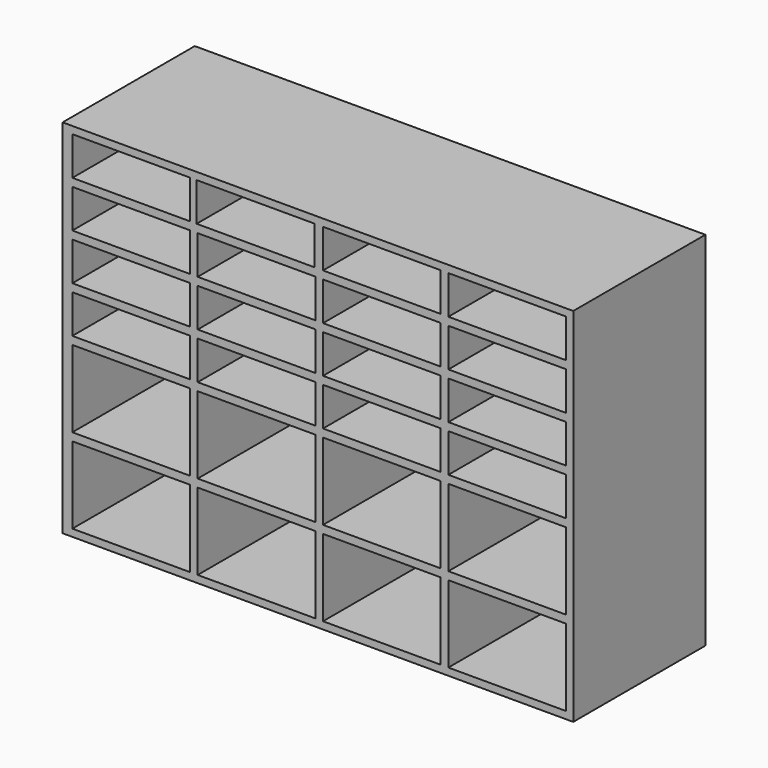
from build123d import *

# Parameters (mm, degrees)
F0_W     = 225.699038
F0_H     = 159.9
F0_W_2   = 52
F0_H_2   = 34
F0_H_3   = 17
F1_DEPTH = 73


with BuildPart() as f1:
    # F0 (on Front) → F1 (new body)
    with BuildSketch(Plane.XZ):
        with Locations((-274.886772, 47.687937)):
            Rectangle(F0_W, F0_H)
        with Locations((-357.437253, -12.062063)):
            Rectangle(F0_W_2, F0_H_2, mode=Mode.SUBTRACT)
        with Locations((-302.037253, -12.062063)):
            Rectangle(F0_W_2, F0_H_2, mode=Mode.SUBTRACT)
        with Locations((-357.437253, 25.437937)):
            Rectangle(F0_W_2, F0_H_2, mode=Mode.SUBTRACT)
        with Locations((-302.037253, 25.437937)):
            Rectangle(F0_W_2, F0_H_2, mode=Mode.SUBTRACT)
        with Locations((-246.637253, -12.062063)):
            Rectangle(F0_W_2, F0_H_2, mode=Mode.SUBTRACT)
        with Locations((-191.237253, -12.062063)):
            Rectangle(F0_W_2, F0_H_2, mode=Mode.SUBTRACT)
        with Locations((-246.637253, 25.437937)):
            Rectangle(F0_W_2, F0_H_2, mode=Mode.SUBTRACT)
        with Locations((-191.237253, 25.437937)):
            Rectangle(F0_W_2, F0_H_2, mode=Mode.SUBTRACT)
        with Locations((-357.437253, 54.437937)):
            Rectangle(F0_W_2, F0_H_3, mode=Mode.SUBTRACT)
        with Locations((-357.437253, 74.937937)):
            Rectangle(F0_W_2, F0_H_3, mode=Mode.SUBTRACT)
        with Locations((-302.037253, 54.437937)):
            Rectangle(F0_W_2, F0_H_3, mode=Mode.SUBTRACT)
        with Locations((-302.037253, 74.937937)):
            Rectangle(F0_W_2, F0_H_3, mode=Mode.SUBTRACT)
        with Locations((-357.437253, 95.437937)):
            Rectangle(F0_W_2, F0_H_3, mode=Mode.SUBTRACT)
        with Locations((-357.437253, 115.937937)):
            Rectangle(F0_W_2, F0_H_3, mode=Mode.SUBTRACT)
        with Locations((-302.037253, 95.437937)):
            Rectangle(F0_W_2, F0_H_3, mode=Mode.SUBTRACT)
        with Locations((-302.508703, 115.937937)):
            Rectangle(F0_W_2, F0_H_3, mode=Mode.SUBTRACT)
        with Locations((-246.637253, 54.437937)):
            Rectangle(F0_W_2, F0_H_3, mode=Mode.SUBTRACT)
        with Locations((-246.637253, 74.937937)):
            Rectangle(F0_W_2, F0_H_3, mode=Mode.SUBTRACT)
        with Locations((-191.237253, 54.437937)):
            Rectangle(F0_W_2, F0_H_3, mode=Mode.SUBTRACT)
        with Locations((-191.237253, 74.937937)):
            Rectangle(F0_W_2, F0_H_3, mode=Mode.SUBTRACT)
        with Locations((-246.637253, 95.437937)):
            Rectangle(F0_W_2, F0_H_3, mode=Mode.SUBTRACT)
        with Locations((-246.637253, 115.937937)):
            Rectangle(F0_W_2, F0_H_3, mode=Mode.SUBTRACT)
        with Locations((-191.237253, 95.437937)):
            Rectangle(F0_W_2, F0_H_3, mode=Mode.SUBTRACT)
        with Locations((-191.237253, 115.937937)):
            Rectangle(F0_W_2, F0_H_3, mode=Mode.SUBTRACT)
    extrude(amount=F1_DEPTH)


solid = f1.part
